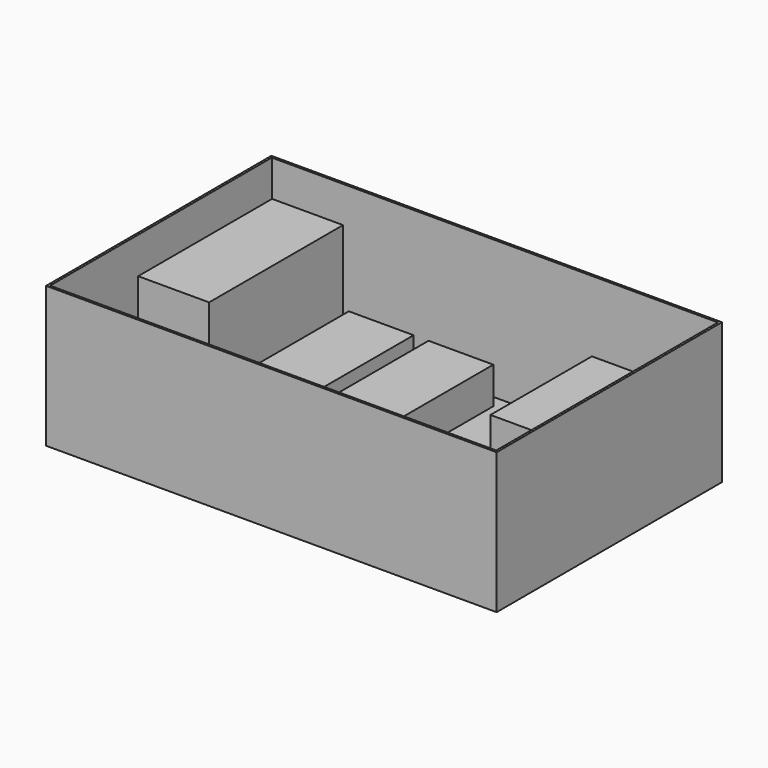
from build123d import *

# Parameters (mm, degrees)
SKETCH_W     = 406.4
SKETCH_H     = 254
PAD_DEPTH    = 127
THICKNESS_T  = -2
SKETCH001_W  = 111.4
SKETCH001_H  = 114.4
PAD001_DEPTH = 64
SKETCH002_W  = 64
SKETCH002_H  = 151
PAD002_DEPTH = 97
SKETCH003_W  = 58.42
SKETCH003_H  = 132.08
PAD003_DEPTH = 35.02
SKETCH004_W  = 58.42
SKETCH004_H  = 132.08
PAD004_DEPTH = 35.02


with BuildPart() as thickness:
    # Sketch → Pad (new body)
    with BuildSketch(Plane.XY):
        with Locations((203.2, -127)):
            Rectangle(SKETCH_W, SKETCH_H)
    extrude(amount=PAD_DEPTH)

    # Thickness
    thickness_openings = [thickness.faces().sort_by_distance(p)[0] for p in [
        (203.2, -127, 127),
    ]]
    offset(amount=THICKNESS_T, openings=thickness_openings)


with BuildPart() as obj1:
    # Sketch001 → Pad001 (new body)
    with BuildSketch(Plane.XY):
        with Locations((347.491134, -60.549997)):
            Rectangle(SKETCH001_W, SKETCH001_H)
    extrude(amount=PAD001_DEPTH)


with BuildPart() as batteryupright:
    # Sketch002 → Pad002 (new body)
    with BuildSketch(Plane.XY):
        with Locations((37.439821, -81.497819)):
            Rectangle(SKETCH002_W, SKETCH002_H)
    extrude(amount=PAD002_DEPTH)


with BuildPart() as obj2:
    # Sketch003 → Pad003 (new body)
    with BuildSketch(Plane.XY):
        with Locations((181.513722, -79.198551)):
            Rectangle(SKETCH003_W, SKETCH003_H)
    extrude(amount=PAD003_DEPTH)


with BuildPart() as obj3:
    # Sketch004 → Pad004 (new body)
    with BuildSketch(Plane.XY):
        with Locations((109.61022, -79.198551)):
            Rectangle(SKETCH004_W, SKETCH004_H)
    extrude(amount=PAD004_DEPTH)


solid = Compound([thickness.part, obj1.part, batteryupright.part, obj2.part, obj3.part])
